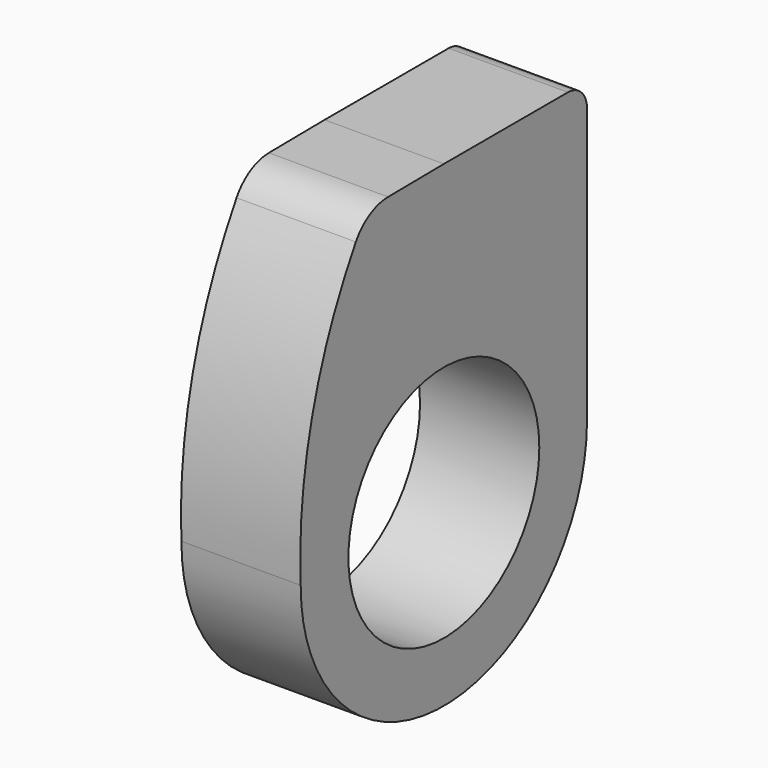
from build123d import *

# Parameters (mm, degrees)
F0_R     = 6.35
F1_DEPTH = 6.35


with BuildPart() as f1:
    # F0 (on Right) → F1 (new body)
    with BuildSketch(Plane.YZ):
        with BuildLine():
            ThreePointArc((-9.525, 0), (0, -9.525), (9.525, 0))
            ThreePointArc((9.525, 0), (0, 9.525), (-9.525, 0))
        make_face()
        Circle(F0_R, mode=Mode.SUBTRACT)
        with BuildLine():
            ThreePointArc((-9.525, 0), (0, 9.525), (9.525, 0))
            Line((9.525, 0), (9.525, 14.605))
            ThreePointArc((9.525, 14.605), (9.153026, 15.503026), (8.255, 15.875))
            Line((8.255, 15.875), (3.688974, 15.875))
            Line((3.688974, 15.875), (0, 15.875))
            Line((0, 15.875), (-3.706779, 15.835173))
            ThreePointArc((-3.706779, 15.835173), (-4.942869, 15.498833), (-5.857603, 14.602002))
            ThreePointArc((-5.857603, 14.602002), (-8.773427, 7.572785), (-9.525, 0))
        make_face()
    extrude(amount=F1_DEPTH)


solid = f1.part
